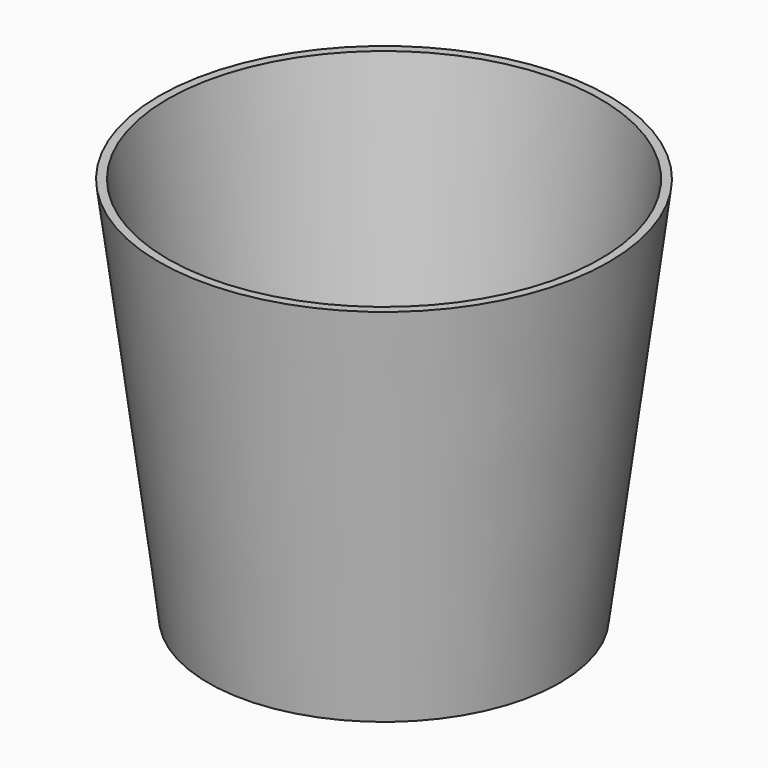
from build123d import *

# Parameters (mm, degrees)
F2_R     = 1
F3_DEPTH = 1.2


with BuildPart() as f1:
    # F0 (on Front) → F1 (revolve)
    with BuildSketch(Plane.XZ):
        Polygon((-30.79032, 55), (-32, 55), (-25, 0), (0, 0), (0, 1.2), (-23.943047, 1.2), align=None)
    revolve(axis=Axis((0, 0, 21.285141), (0, 0, -1)))

    # F2 (on face) → F3 (cut, through all)
    with BuildSketch(Plane.XY.offset(1.2)):
        Circle(F2_R)
        with Locations((6, 0)):
            Circle(F2_R)
        with Locations((3, 5.196152)):
            Circle(F2_R)
        with Locations((-3, 5.196152)):
            Circle(F2_R)
        with Locations((-6, 0)):
            Circle(F2_R)
        with Locations((-3, -5.196152)):
            Circle(F2_R)
        with Locations((3, -5.196152)):
            Circle(F2_R)
        with Locations((12, 0)):
            Circle(F2_R)
        with Locations((10.392305, 6)):
            Circle(F2_R)
        with Locations((6, 10.392305)):
            Circle(F2_R)
        with Locations((0, 12)):
            Circle(F2_R)
        with Locations((-6, 10.392305)):
            Circle(F2_R)
        with Locations((-10.392305, 6)):
            Circle(F2_R)
        with Locations((-12, 0)):
            Circle(F2_R)
        with Locations((-10.392305, -6)):
            Circle(F2_R)
        with Locations((-6, -10.392305)):
            Circle(F2_R)
        with Locations((0, -12)):
            Circle(F2_R)
        with Locations((6, -10.392305)):
            Circle(F2_R)
        with Locations((10.392305, -6)):
            Circle(F2_R)
        with Locations((18, 0)):
            Circle(F2_R)
        with Locations((16.914467, 6.156363)):
            Circle(F2_R)
        with Locations((13.7888, 11.570177)):
            Circle(F2_R)
        with Locations((9, 15.588457)):
            Circle(F2_R)
        with Locations((3.125667, 17.72654)):
            Circle(F2_R)
        with Locations((-3.125667, 17.72654)):
            Circle(F2_R)
        with Locations((-9, 15.588457)):
            Circle(F2_R)
        with Locations((-13.7888, 11.570177)):
            Circle(F2_R)
        with Locations((-16.914467, 6.156363)):
            Circle(F2_R)
        with Locations((-18, 0)):
            Circle(F2_R)
        with Locations((-16.914467, -6.156363)):
            Circle(F2_R)
        with Locations((-13.7888, -11.570177)):
            Circle(F2_R)
        with Locations((-9, -15.588457)):
            Circle(F2_R)
        with Locations((-3.125667, -17.72654)):
            Circle(F2_R)
        with Locations((3.125667, -17.72654)):
            Circle(F2_R)
        with Locations((9, -15.588457)):
            Circle(F2_R)
        with Locations((13.7888, -11.570177)):
            Circle(F2_R)
        with Locations((16.914467, -6.156363)):
            Circle(F2_R)
    extrude(amount=-F3_DEPTH, mode=Mode.SUBTRACT)


solid = f1.part
